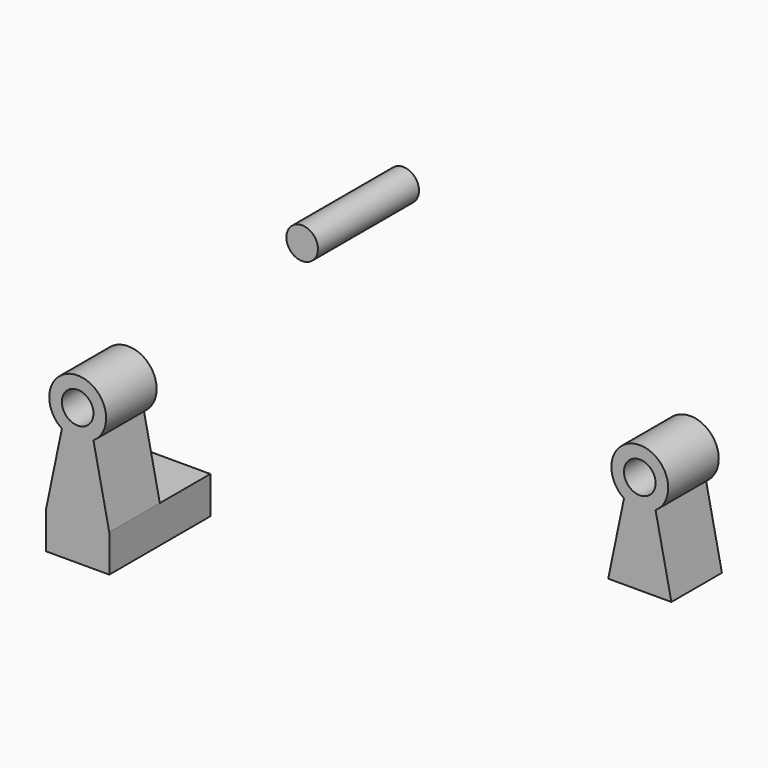
from build123d import *

# Parameters (mm, degrees)
F0_W     = 12.7
F0_H     = 25.4
F1_DEPTH = 7.5
F3_DEPTH = 12.7
F4_R     = 3.175
F5_DEPTH = 25.4
F6_R     = 3.175
F7_DEPTH = 12.7
F8_R     = 3.175
F9_DEPTH = 25.4


with BuildPart() as f1:
    # F0 (on Top) → F1 (new body)
    with BuildSketch(Plane.XY):
        with Locations((-67.301501, -56.133425)):
            Rectangle(F0_W, F0_H)
    extrude(amount=F1_DEPTH)

    # F2 (on face) → F3 (join)
    with BuildSketch(Plane.XZ.offset(68.833425)):
        with BuildLine():
            Line((-70.476501, 22.74), (-73.651501, 7.5))
            Line((-73.651501, 7.5), (-60.951501, 7.5))
            Line((-60.951501, 7.5), (-64.126501, 22.74))
            ThreePointArc((-64.126501, 22.74), (-67.301501, 33.206905), (-70.476501, 22.74))
        make_face()
    extrude(amount=-F3_DEPTH)

    # F4 (on face) → F5 (cut)
    with BuildSketch(Plane.XZ.offset(68.833425)):
        with Locations((-67.301501, 27.491905)):
            Circle(F4_R)
    extrude(amount=-F5_DEPTH, mode=Mode.SUBTRACT)


with BuildPart() as f7:
    # F6 (on Front) → F7 (new body)
    with BuildSketch(Plane.XZ):
        with BuildLine():
            Line((-2.38125, 9.728031), (-5.55625, -5.511969))
            Line((-5.55625, -5.511969), (7.14375, -5.511969))
            Line((7.14375, -5.511969), (3.96875, 9.728031))
            ThreePointArc((3.96875, 9.728031), (0.79375, 20.194936), (-2.38125, 9.728031))
        make_face()
        with Locations((0.79375, 14.479936)):
            Circle(F6_R, mode=Mode.SUBTRACT)
    extrude(amount=F7_DEPTH)


with BuildPart() as f9:
    # F8 (on Front) → F9 (new body)
    with BuildSketch(Plane.XZ):
        with Locations((-56.922451, 42.3191)):
            Circle(F8_R)
    extrude(amount=F9_DEPTH)


solid = Compound([f1.part, f7.part, f9.part])
